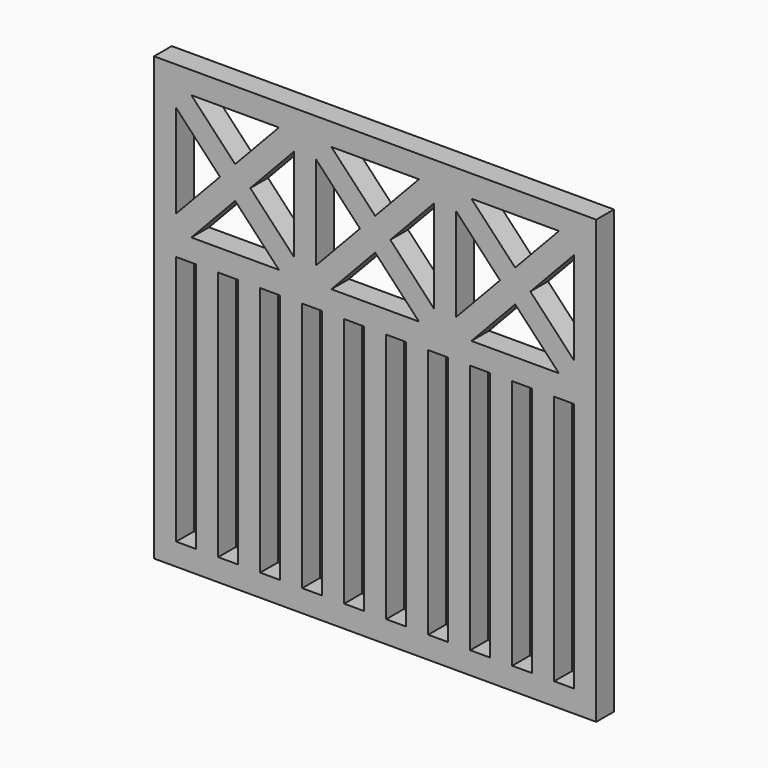
from build123d import *

# Parameters (mm, degrees)
F0_W     = 25
F0_H     = 283.3333333333
F1_DEPTH = 25


with BuildPart() as f1:
    # F0 (on Front) → F1 (new body)
    with BuildSketch(Plane.XZ):
        Polygon((0, 500), (0, 0), (25, 25), (25, 308.3333333333), (25, 333.3333333333), (25, 351.5717982238), (25, 456.7615351095), (25, 475), align=None)
        Polygon((500, 500), (0, 500), (25, 475), (42.1656140146, 475), (141.1677193187, 475), (158.3333333333, 475), (183.3333333333, 475), (200.4989473479, 475), (299.5010526521, 475), (316.6666666667, 475), (341.6666666667, 475), (358.8322806813, 475), (457.8343859854, 475), (475, 475), align=None)
        Polygon((475, 25), (500, 0), (500, 500), (475, 475), (475, 456.7615351095), (475, 351.5717982238), (475, 333.3333333333), (475, 308.3333333333), align=None)
        Polygon((25, 25), (0, 0), (500, 0), (475, 25), (452.5, 25), (427.5, 25), (405, 25), (380, 25), (357.5, 25), (332.5, 25), (310, 25), (285, 25), (262.5, 25), (237.5, 25), (215, 25), (190, 25), (167.5, 25), (142.5, 25), (120, 25), (95, 25), (72.5, 25), (47.5, 25), align=None)
        Polygon((25, 351.5717982238), (25, 333.3333333333), (42.1656140146, 333.3333333333), (91.6666666667, 385.9282017762), (74.5010526521, 404.1666666667), align=None)
        Polygon((42.1656140146, 475), (25, 475), (25, 456.7615351095), (74.5010526521, 404.1666666667), (91.6666666667, 385.9282017762), (141.1677193187, 333.3333333333), (158.3333333333, 333.3333333333), (158.3333333333, 351.5717982238), (108.8322806813, 404.1666666667), (91.6666666667, 422.4051315572), align=None)
        Polygon((158.3333333333, 475), (141.1677193187, 475), (91.6666666667, 422.4051315572), (108.8322806813, 404.1666666667), (158.3333333333, 456.7615351095), align=None)
        Polygon((183.3333333333, 475), (158.3333333333, 475), (158.3333333333, 456.7615351095), (158.3333333333, 351.5717982238), (158.3333333333, 333.3333333333), (183.3333333333, 333.3333333333), (183.3333333333, 351.5717982238), (183.3333333333, 456.7615351095), align=None)
        Polygon((200.4989473479, 475), (183.3333333333, 475), (183.3333333333, 456.7615351095), (232.8343859854, 404.1666666667), (250, 385.9282017762), (299.5010526521, 333.3333333333), (316.6666666667, 333.3333333333), (316.6666666667, 351.5717982238), (267.1656140146, 404.1666666667), (250, 422.4051315572), align=None)
        Polygon((183.3333333333, 351.5717982238), (183.3333333333, 333.3333333333), (200.4989473479, 333.3333333333), (250, 385.9282017762), (232.8343859854, 404.1666666667), align=None)
        Polygon((316.6666666667, 456.7615351095), (316.6666666667, 475), (299.5010526521, 475), (250, 422.4051315572), (267.1656140146, 404.1666666667), align=None)
        Polygon((341.6666666667, 456.7615351095), (341.6666666667, 475), (316.6666666667, 475), (316.6666666667, 456.7615351095), (316.6666666667, 351.5717982238), (316.6666666667, 333.3333333333), (341.6666666667, 333.3333333333), (341.6666666667, 351.5717982238), align=None)
        Polygon((457.8343859854, 333.3333333333), (475, 333.3333333333), (475, 351.5717982238), (425.4989473479, 404.1666666667), (408.3333333333, 422.4051315572), (358.8322806813, 475), (341.6666666667, 475), (341.6666666667, 456.7615351095), (391.1677193187, 404.1666666667), (408.3333333333, 385.9282017762), align=None)
        Polygon((475, 456.7615351095), (475, 475), (457.8343859854, 475), (408.3333333333, 422.4051315572), (425.4989473479, 404.1666666667), align=None)
        Polygon((341.6666666667, 333.3333333333), (358.8322806813, 333.3333333333), (408.3333333333, 385.9282017762), (391.1677193187, 404.1666666667), (341.6666666667, 351.5717982238), align=None)
        Polygon((25, 333.3333333333), (25, 308.3333333333), (47.5, 308.3333333333), (72.5, 308.3333333333), (95, 308.3333333333), (120, 308.3333333333), (142.5, 308.3333333333), (167.5, 308.3333333333), (190, 308.3333333333), (215, 308.3333333333), (237.5, 308.3333333333), (262.5, 308.3333333333), (285, 308.3333333333), (310, 308.3333333333), (332.5, 308.3333333333), (357.5, 308.3333333333), (380, 308.3333333333), (405, 308.3333333333), (427.5, 308.3333333333), (452.5, 308.3333333333), (475, 308.3333333333), (475, 333.3333333333), (457.8343859854, 333.3333333333), (358.8322806813, 333.3333333333), (341.6666666667, 333.3333333333), (316.6666666667, 333.3333333333), (299.5010526521, 333.3333333333), (200.4989473479, 333.3333333333), (183.3333333333, 333.3333333333), (158.3333333333, 333.3333333333), (141.1677193187, 333.3333333333), (42.1656140146, 333.3333333333), align=None)
        with Locations((60, 166.6666666667)):
            Rectangle(F0_W, F0_H)
        with Locations((107.5, 166.6666666667)):
            Rectangle(F0_W, F0_H)
        with Locations((155, 166.6666666667)):
            Rectangle(F0_W, F0_H)
        with Locations((202.5, 166.6666666667)):
            Rectangle(F0_W, F0_H)
        with Locations((250, 166.6666666667)):
            Rectangle(F0_W, F0_H)
        with Locations((297.5, 166.6666666667)):
            Rectangle(F0_W, F0_H)
        with Locations((345, 166.6666666667)):
            Rectangle(F0_W, F0_H)
        with Locations((392.5, 166.6666666667)):
            Rectangle(F0_W, F0_H)
        with Locations((440, 166.6666666667)):
            Rectangle(F0_W, F0_H)
    extrude(amount=-F1_DEPTH)


solid = f1.part
